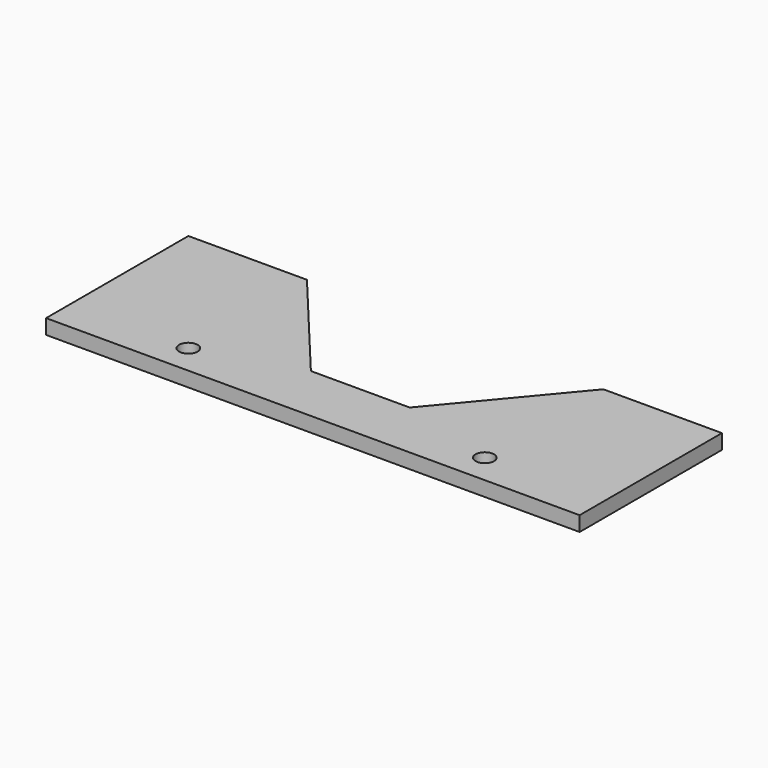
from build123d import *

# Parameters (mm, degrees)
F0_R     = 1.984375
F1_DEPTH = 3.175


with BuildPart() as f1:
    # F0 (on Top) → F1 (new body)
    with BuildSketch(Plane.XY):
        Polygon((-57.15, 12.7), (-57.15, 0), (0, 0), (-10.5833333333, 12.7), align=None)
        with Locations((-31.75, 6.35)):
            Circle(F0_R, mode=Mode.SUBTRACT)
        Polygon((0, 12.7), (0, 0), (10.5833333333, 12.7), align=None)
        Polygon((-10.5833333333, 12.7), (0, 0), (0, 12.7), align=None)
        Polygon((31.75, 38.1), (10.5833333333, 12.7), (57.15, 12.7), (57.15, 38.1), align=None)
        Polygon((10.5833333333, 12.7), (0, 0), (57.15, 0), (57.15, 12.7), align=None)
        with Locations((31.75, 6.35)):
            Circle(F0_R, mode=Mode.SUBTRACT)
        Polygon((-57.15, 38.1), (-57.15, 12.7), (-10.5833333333, 12.7), (-31.75, 38.1), align=None)
    extrude(amount=F1_DEPTH)


solid = f1.part
